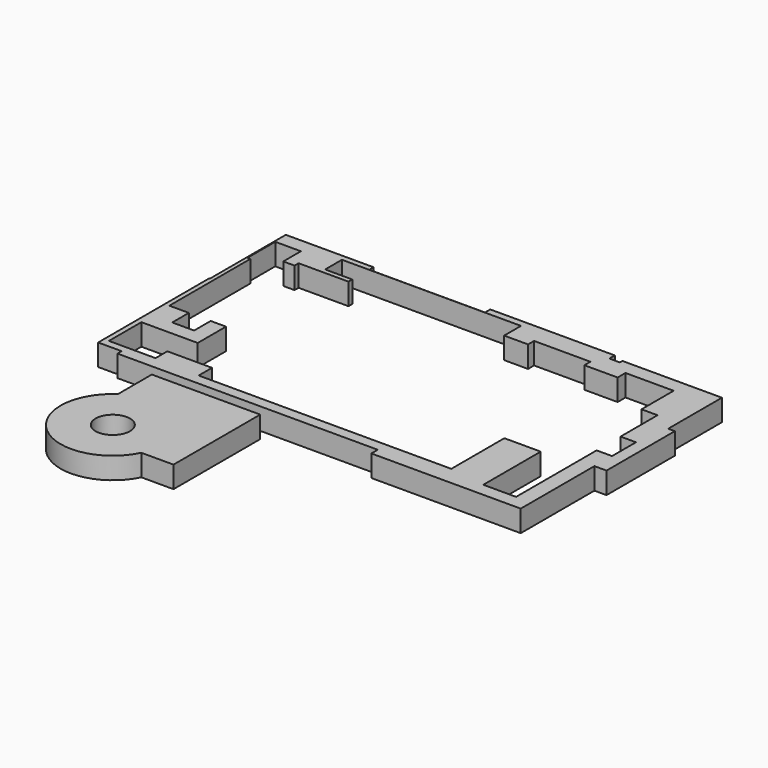
from build123d import *

# Parameters (mm, degrees)
F0_W     = 135.9343566
F0_H     = 0.1756101847
F0_W_2   = 42.4401154742
F0_W_3   = 50.2697899938
F0_H_2   = 12.533262372
F0_W_4   = 4.5286715031
F0_H_3   = 45.140972361
F0_W_5   = 12.3383402824
F0_H_4   = 24.679876864
F0_W_6   = 5.7632625103
F0_H_5   = 30.3031876683
F0_W_7   = 17.9205089808
F0_H_6   = 16.6855733842
F0_W_8   = 24.3606120348
F0_H_7   = 17.6116675138
F1_DEPTH = 25.4
F0_R     = 20.2014517243


with BuildPart() as f1:
    # F0 (on Top) → F1 (new body)
    with BuildSketch(Plane.XY):
        Polygon((-221.5639203787, 110.521659255), (-162.9473119974, 110.521659255), (-162.9473119974, 116.0842701793), (-194.83679533, 116.0842701793), (-194.83679533, 140.7641470432), (-162.9473119974, 140.7641470432), (-162.9473119974, 140.9397572279), (-261.4599168301, 140.9397572279), (-261.4599168301, 130.4024606943), (-234.771206975, 130.4024606943), (-234.771206975, 104.5558452606), (-221.5639203787, 104.5558452606), align=None)
        Polygon((-153.7993103266, -120.8513230085), (-153.7993103266, -101.2267172337), (-166.448622942, -101.2267172337), (-194.8743909597, -101.2267172337), (-194.8743909597, -127.2142380476), (-239.1624897718, -127.2142380476), (-239.1624897718, -133.3845853806), (66.5338635445, -133.3845853806), (66.5338635445, -120.8513230085), align=None)
        with Locations((-94.9801336974, 140.8519521356)):
            Rectangle(F0_W, F0_H)
        Polygon((-194.8743909597, -70.9235295653), (-194.8743909597, -29.3697714806), (-212.8959745169, -29.3697714806), (-212.8959745169, -53.7165440619), (-238.5485470295, -53.7165440619), (-238.5485470295, -29.3697714806), (-261.4599168301, -29.3697714806), (-261.4599168301, -9.0843010694), (-265.9885883331, -9.0843010694), (-265.9885883331, 36.0566712916), (-266.7863070965, 36.0566712916), (-266.7863070965, -70.9235295653), (-261.0230445862, -70.9235295653), (-206.2880843878, -70.9235295653), align=None)
        Polygon((15.4271600768, 140.7641470432), (15.4271600768, 116.0842701793), (43.4648655355, 116.0842701793), (43.4648655355, 124.9309331179), (109.6420660615, 124.9309331179), (109.6420660615, 116.0842701793), (119.244530797, 116.0842701793), (119.244530797, 140.7641470432), align=None)
        with Locations((-5.7928976603, 140.8519521356)):
            Rectangle(F0_W_2, F0_H)
        Polygon((-261.4599168301, 140.9397572279), (-162.9473119974, 140.9397572279), (-162.9473119974, 147.2770273685), (-265.9885883331, 147.2770273685), (-265.9885883331, 36.0566712916), (-261.4599168301, 36.0566712916), (-261.4599168301, 89.6342173219), (-264.86364007, 89.6342173219), (-264.86364007, 130.4024606943), (-261.4599168301, 130.4024606943), align=None)
        with Locations((91.6687585413, -127.1179541945)):
            Rectangle(F0_W_3, F0_H_2)
        Polygon((-194.8743909597, -127.2142380476), (-194.8743909597, -101.2267172337), (-206.2880843878, -101.2267172337), (-206.2880843878, -118.6172664165), (-239.1624897718, -118.6172664165), (-239.1624897718, -127.2142380476), align=None)
        Polygon((15.4271600768, 140.9397572279), (15.4271600768, 140.7641470432), (119.244530797, 140.7641470432), (119.244530797, 148.7089693546), (-27.0129553974, 148.7089693546), (-27.0129553974, 140.9397572279), align=None)
        Polygon((142.8864151239, -120.8513230085), (116.8036535382, -120.8513230085), (116.8036535382, -133.3845853806), (66.5338635445, -133.3845853806), (66.5338635445, -142.8071856499), (241.9860512018, -142.8071856499), (241.9860512018, -34.6389487386), (224.0655422211, -34.6389487386), (224.0655422211, -127.2142380476), (185.5846792459, -127.2142380476), (185.5846792459, -42.9407432675), (142.8864151239, -42.9407432675), align=None)
        with Locations((-263.7242525816, 13.4861851111)):
            Rectangle(F0_W_4, F0_H_3)
        with Locations((125.4137009382, 128.4242086112)):
            Rectangle(F0_W_5, F0_H_4)
        Polygon((-266.7863070965, -127.2142380476), (-239.1624897718, -127.2142380476), (-239.1624897718, -118.6172664165), (-261.0230445862, -118.6172664165), (-261.0230445862, -101.2267172337), (-266.7863070965, -101.2267172337), align=None)
        with Locations((-263.9046758413, -86.0751233995)):
            Rectangle(F0_W_6, F0_H_5)
        Polygon((131.5828710794, 144.5139944553), (131.5828710794, 140.7641470432), (224.7266769409, 140.7641470432), (224.7266769409, 116.0842701793), (205.2614539862, 116.0842701793), (205.2614539862, 80.4432332516), (224.0655422211, 80.4432332516), (224.0655422211, 65.6361579895), (248.4261542559, 65.6361579895), (248.4261542559, 144.5139944553), align=None)
        Polygon((224.7266769409, 140.7641470432), (131.5828710794, 140.7641470432), (131.5828710794, 116.0842701793), (148.6779153347, 116.0842701793), (148.6779153347, 127.615571022), (205.2614539862, 127.615571022), (205.2614539862, 116.0842701793), (224.7266769409, 116.0842701793), align=None)
        Polygon((241.9860512018, -17.9533753544), (241.9860512018, -34.6389487386), (256.2182545662, -34.6389487386), (256.2182545662, 65.6361579895), (248.4261542559, 65.6361579895), (248.4261542559, 48.0244904757), (224.0655422211, 48.0244904757), (224.0655422211, 26.132196188), (242.1882152557, 26.132196188), (242.1882152557, -8.9661283419), (224.0655422211, -8.9661283419), (224.0655422211, -17.9533753544), align=None)
        with Locations((233.0257967114, -26.2961620465)):
            Rectangle(F0_W_7, F0_H_6)
        with Locations((236.2458482385, 56.8303242326)):
            Rectangle(F0_W_8, F0_H_7)
    extrude(amount=F1_DEPTH)


with BuildPart() as f1b:
    # F0 (on Top) → F1, piece 2 (new body)
    with BuildSketch(Plane.XY):
        with BuildLine():
            Line((-188.572883606, -195.8947534708), (-188.572883606, -273.4934687614))
            Line((-188.572883606, -273.4934687614), (-98.9903902455, -273.4934687614))
            ThreePointArc((-98.9903902455, -273.4934687614), (-94.3407566268, -260.3886775665), (-92.7638384476, -246.5731799603))
            ThreePointArc((-92.7638384476, -246.5731799603), (-125.4058963477, -192.3798315547), (-188.572883606, -195.8947534708))
        make_face()
        with Locations((-154.0715992451, -246.5731799603)):
            Circle(F0_R, mode=Mode.SUBTRACT)
        with BuildLine():
            Line((-98.9903902455, -273.4934687614), (-188.572883606, -273.4934687614))
            Line((-188.572883606, -273.4934687614), (-188.572883606, -195.8947534708))
            ThreePointArc((-188.572883606, -195.8947534708), (-194.2122703683, -292.9128827622), (-98.9903902455, -273.4934687614))
        make_face()
        with BuildLine():
            ThreePointArc((-92.7638384476, -246.5731799603), (-94.3407566268, -260.3886775665), (-98.9903902455, -273.4934687614))
            Line((-98.9903902455, -273.4934687614), (-61.2665489316, -273.4934687614))
            Line((-61.2665489316, -273.4934687614), (-61.2665489316, -146.1871266365))
            Line((-61.2665489316, -146.1871266365), (-188.572883606, -146.1871266365))
            Line((-188.572883606, -146.1871266365), (-188.572883606, -195.8947534708))
            ThreePointArc((-188.572883606, -195.8947534708), (-125.4058963477, -192.3798315547), (-92.7638384476, -246.5731799603))
        make_face()
    extrude(amount=F1_DEPTH)


solid = Compound([f1.part, f1b.part])
